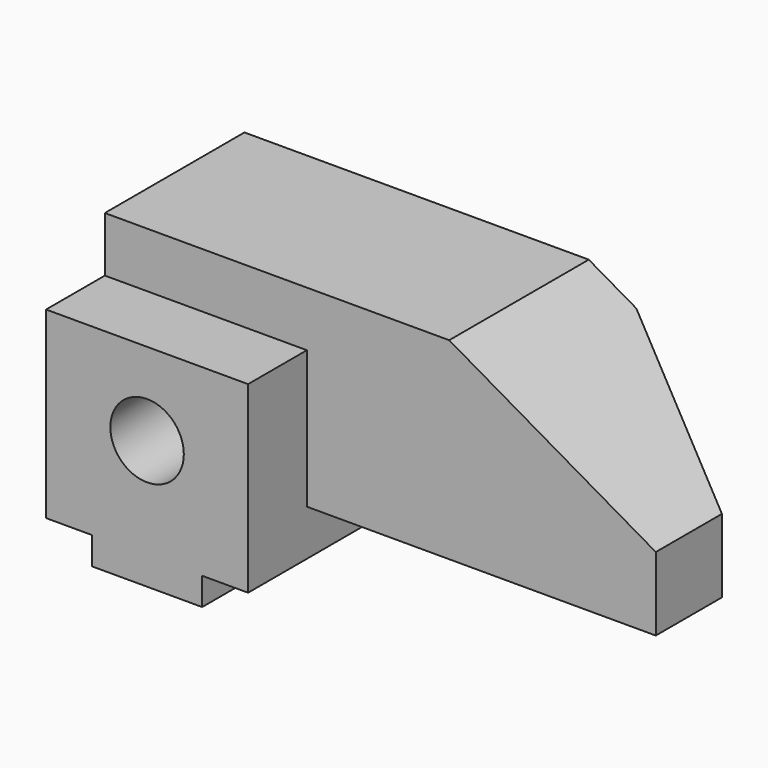
from build123d import *

# Parameters (mm, degrees)
F0_W     = 44
F0_H     = 30
F0_R     = 8
F1_DEPTH = 54
F2_DEPTH = 38
F3_R     = 8
F4_DEPTH = 22
F6_DEPTH = 42.001


with BuildPart() as f1:
    # F0 (on Front) → F1 (new body)
    with BuildSketch(Plane.XZ):
        Polygon((0, 16), (0, 6), (10, 6), (10, 0), (34, 0), (34, 6), (44, 6), (44, 16), align=None)
        with Locations((22, 31)):
            Rectangle(F0_W, F0_H)
        with Locations((22, 28)):
            Circle(F0_R, mode=Mode.SUBTRACT)
        with Locations((22, 28)):
            Circle(F0_R)
    extrude(amount=F1_DEPTH)

    # F0 (on Front) → F2 (join)
    with BuildSketch(Plane.XZ):
        Polygon((0, 58), (0, 46), (44, 46), (44, 16), (120, 16), (120, 32.019238), (75, 58), align=None)
    extrude(amount=F2_DEPTH)

    # F3 (on face) → F4 (cut)
    with BuildSketch(Plane.XZ.offset(54)):
        with Locations((22, 28)):
            Circle(F3_R)
    extrude(amount=-F4_DEPTH, mode=Mode.SUBTRACT)

    # F5 (on face) → F6 (cut, through all)
    with BuildSketch(Plane(origin=(0, 0, 16), x_dir=(1, 0, 0), z_dir=(0, 0, -1))):
        Polygon((85.358984, 0), (120, 0), (120, 20), align=None)
    extrude(amount=-F6_DEPTH, mode=Mode.SUBTRACT)


solid = f1.part
